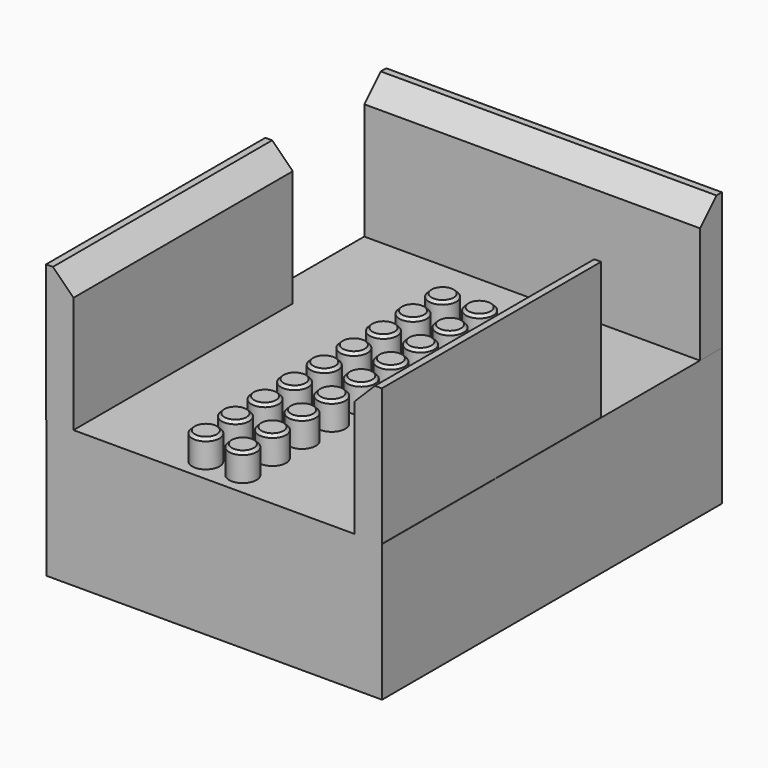
from build123d import *

# Parameters (mm, degrees)
SKETCH_W        = 6.1
SKETCH_H        = 25
PAD_DEPTH       = 10
SKETCH001_R     = 1
PAD001_DEPTH    = 2
CHAMFER_SIZE    = 0.2
PAD002_DEPTH    = 10
SKETCH003_W     = 2
SKETCH003_H     = 20
SKETCH003_W_2   = 24.5
SKETCH003_H_2   = 2
PAD003_DEPTH    = 10
CHAMFER001_SIZE = 1.5


with BuildPart() as part:
    # Sketch → Pad (new body)
    with BuildSketch(Plane.XY):
        with Locations((3.05, 12.5)):
            Rectangle(SKETCH_W, SKETCH_H)
    extrude(amount=PAD_DEPTH)

    # Sketch001 (on Face6 of Pad) → Pad001 (join)
    with BuildSketch(Plane.XY.offset(10)):
        with Locations((1.7, 23.3)):
            Circle(SKETCH001_R)
        with Locations((1.7, 20.6)):
            Circle(SKETCH001_R)
        with Locations((1.7, 17.9)):
            Circle(SKETCH001_R)
        with Locations((1.7, 15.2)):
            Circle(SKETCH001_R)
        with Locations((1.7, 12.5)):
            Circle(SKETCH001_R)
        with Locations((1.7, 9.8)):
            Circle(SKETCH001_R)
        with Locations((1.7, 7.1)):
            Circle(SKETCH001_R)
        with Locations((1.7, 4.4)):
            Circle(SKETCH001_R)
        with Locations((1.7, 1.7)):
            Circle(SKETCH001_R)
        with Locations((4.4, 23.3)):
            Circle(SKETCH001_R)
        with Locations((4.4, 20.6)):
            Circle(SKETCH001_R)
        with Locations((4.4, 17.9)):
            Circle(SKETCH001_R)
        with Locations((4.4, 15.2)):
            Circle(SKETCH001_R)
        with Locations((4.4, 12.5)):
            Circle(SKETCH001_R)
        with Locations((4.4, 9.8)):
            Circle(SKETCH001_R)
        with Locations((4.4, 7.1)):
            Circle(SKETCH001_R)
        with Locations((4.4, 4.4)):
            Circle(SKETCH001_R)
        with Locations((4.4, 1.7)):
            Circle(SKETCH001_R)
    extrude(amount=PAD001_DEPTH)

    # Chamfer
    chamfer_edges = [part.edges().sort_by_distance(p)[0] for p in [
        (0.7, 15.2, 12),
        (3.4, 15.2, 12),
        (3.4, 12.5, 12),
        (0.7, 12.5, 12),
        (0.7, 9.8, 12),
        (3.4, 9.8, 12),
        (3.4, 7.1, 12),
        (0.7, 7.1, 12),
        (0.7, 4.4, 12),
        (3.4, 4.4, 12),
        (3.4, 1.7, 12),
        (0.7, 1.7, 12),
        (0.7, 17.9, 12),
        (3.4, 17.9, 12),
        (3.4, 20.6, 12),
        (0.7, 20.6, 12),
        (0.7, 23.3, 12),
        (3.4, 23.3, 12),
    ]]
    chamfer(chamfer_edges, length=CHAMFER_SIZE)

    # Sketch002 (on Face3 of Chamfer) → Pad002 (join)
    with BuildSketch(Plane.XY.offset(10)):
        Polygon((0, 25), (0, 0), (-8.581457, 0), (-8.581457, 31), (15.918543, 31), (15.918543, 0), (6.1, 0), (6.1, 25), align=None)
    extrude(amount=-PAD002_DEPTH)

    # Sketch003 (on Face5 of Pad002) → Pad003 (join)
    with BuildSketch(Plane.XY.offset(10)):
        with Locations((-7.597696, 10)):
            Rectangle(SKETCH003_W, SKETCH003_H)
        with Locations((3.67, 30)):
            Rectangle(SKETCH003_W_2, SKETCH003_H_2)
        with Locations((14.902304, 10)):
            Rectangle(SKETCH003_W, SKETCH003_H)
    extrude(amount=PAD003_DEPTH)

    # Chamfer001
    chamfer001_edges = [part.edges().sort_by_distance(p)[0] for p in [
        (13.902304, 10, 20),
        (-6.597696, 10, 20),
        (3.67, 29, 20),
    ]]
    chamfer(chamfer001_edges, length=CHAMFER001_SIZE)


solid = part.part
